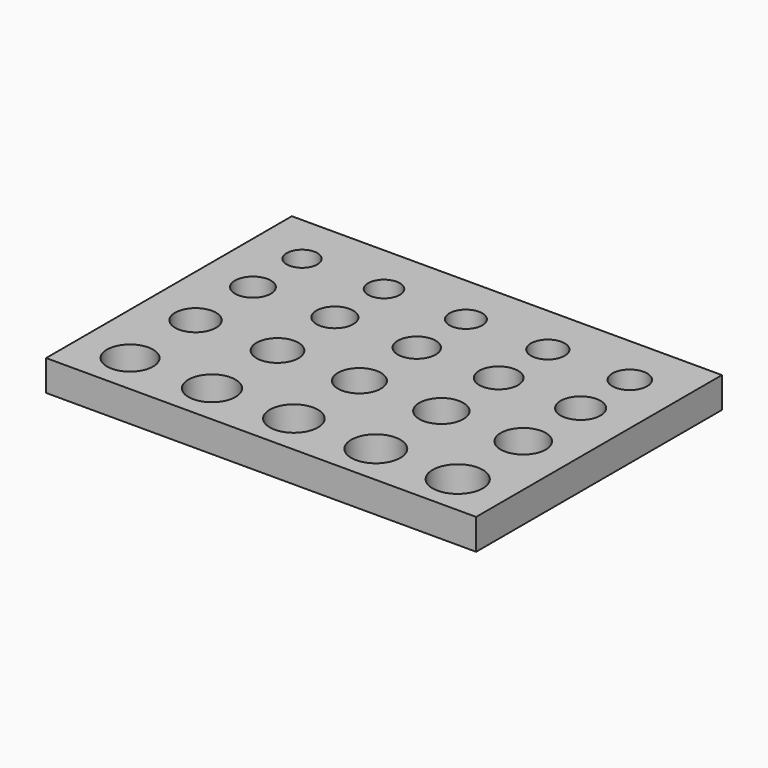
from build123d import *

# Parameters (mm, degrees)
F0_W     = 42
F0_H     = 30
F1_DEPTH = 3
F2_D     = 3
F3_D     = 3.1
F4_D     = 3.2
F5_D     = 3.3
F6_D     = 3.4
F7_D     = 3.5
F8_D     = 3.6
F9_D     = 3.7
F10_D    = 3.8
F11_D    = 3.9
F12_D    = 4
F13_D    = 4.1
F14_D    = 4.2
F15_D    = 4.3
F16_D    = 4.4
F17_D    = 4.5
F18_D    = 4.6
F19_D    = 4.7
F20_D    = 4.8
F21_D    = 4.9


with BuildPart() as f1:
    # F0 (on Top) → F1 (new body)
    with BuildSketch(Plane.XY):
        Rectangle(F0_W, F0_H)
    extrude(amount=F1_DEPTH)

    # F2 (through all)
    with Locations(Plane(origin=(0, 0, 0), x_dir=(1, 0, 0), z_dir=(0, 0, -1))):
        with Locations((-16, -10)):
            Hole(F2_D / 2)

    # F3 (through all)
    with Locations(Plane(origin=(0, 0, 0), x_dir=(1, 0, 0), z_dir=(0, 0, -1))):
        with Locations((-8, -10)):
            Hole(F3_D / 2)

    # F4 (through all)
    with Locations(Plane(origin=(0, 0, 0), x_dir=(1, 0, 0), z_dir=(0, 0, -1))):
        with Locations((0, -10)):
            Hole(F4_D / 2)

    # F5 (through all)
    with Locations(Plane(origin=(0, 0, 0), x_dir=(1, 0, 0), z_dir=(0, 0, -1))):
        with Locations((8, -10)):
            Hole(F5_D / 2)

    # F6 (through all)
    with Locations(Plane(origin=(0, 0, 0), x_dir=(1, 0, 0), z_dir=(0, 0, -1))):
        with Locations((16, -10)):
            Hole(F6_D / 2)

    # F7 (through all)
    with Locations(Plane(origin=(0, 0, 0), x_dir=(1, 0, 0), z_dir=(0, 0, -1))):
        with Locations((-16, -4)):
            Hole(F7_D / 2)

    # F8 (through all)
    with Locations(Plane(origin=(0, 0, 0), x_dir=(1, 0, 0), z_dir=(0, 0, -1))):
        with Locations((-8, -4)):
            Hole(F8_D / 2)

    # F9 (through all)
    with Locations(Plane(origin=(0, 0, 0), x_dir=(1, 0, 0), z_dir=(0, 0, -1))):
        with Locations((0, -4)):
            Hole(F9_D / 2)

    # F10 (through all)
    with Locations(Plane(origin=(0, 0, 0), x_dir=(1, 0, 0), z_dir=(0, 0, -1))):
        with Locations((8, -4)):
            Hole(F10_D / 2)

    # F11 (through all)
    with Locations(Plane(origin=(0, 0, 0), x_dir=(1, 0, 0), z_dir=(0, 0, -1))):
        with Locations((16, -4)):
            Hole(F11_D / 2)

    # F12 (through all)
    with Locations(Plane(origin=(0, 0, 0), x_dir=(1, 0, 0), z_dir=(0, 0, -1))):
        with Locations((-16, 3)):
            Hole(F12_D / 2)

    # F13 (through all)
    with Locations(Plane(origin=(0, 0, 0), x_dir=(1, 0, 0), z_dir=(0, 0, -1))):
        with Locations((-8, 3)):
            Hole(F13_D / 2)

    # F14 (through all)
    with Locations(Plane(origin=(0, 0, 0), x_dir=(1, 0, 0), z_dir=(0, 0, -1))):
        with Locations((0, 3)):
            Hole(F14_D / 2)

    # F15 (through all)
    with Locations(Plane(origin=(0, 0, 0), x_dir=(1, 0, 0), z_dir=(0, 0, -1))):
        with Locations((8, 3)):
            Hole(F15_D / 2)

    # F16 (through all)
    with Locations(Plane(origin=(0, 0, 0), x_dir=(1, 0, 0), z_dir=(0, 0, -1))):
        with Locations((16, 3)):
            Hole(F16_D / 2)

    # F17 (through all)
    with Locations(Plane(origin=(0, 0, 0), x_dir=(1, 0, 0), z_dir=(0, 0, -1))):
        with Locations((-16, 11)):
            Hole(F17_D / 2)

    # F18 (through all)
    with Locations(Plane(origin=(0, 0, 0), x_dir=(1, 0, 0), z_dir=(0, 0, -1))):
        with Locations((-8, 11)):
            Hole(F18_D / 2)

    # F19 (through all)
    with Locations(Plane(origin=(0, 0, 0), x_dir=(1, 0, 0), z_dir=(0, 0, -1))):
        with Locations((0, 11)):
            Hole(F19_D / 2)

    # F20 (through all)
    with Locations(Plane(origin=(0, 0, 0), x_dir=(1, 0, 0), z_dir=(0, 0, -1))):
        with Locations((8, 11)):
            Hole(F20_D / 2)

    # F21 (through all)
    with Locations(Plane(origin=(0, 0, 0), x_dir=(1, 0, 0), z_dir=(0, 0, -1))):
        with Locations((16, 11)):
            Hole(F21_D / 2)


solid = f1.part
